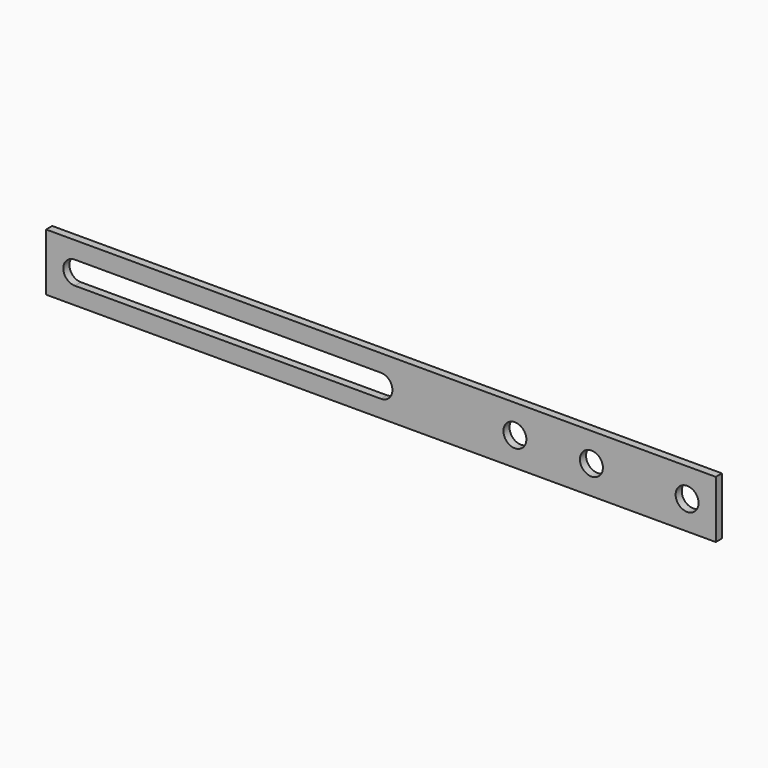
from build123d import *

# Parameters (mm, degrees)
F0_W     = 150
F0_H     = 15
F1_DEPTH = 1
F2_W     = 2
F2_H     = 15
F3_DEPTH = 25
F4_R     = 3
F5_DEPTH = 2.001
F6_R     = 3
F7_DEPTH = 2.001


with BuildPart() as f1:
    # F0 (on Front) → F1 (new body, symmetric)
    with BuildSketch(Plane.XZ):
        with Locations((67.5, 0)):
            Rectangle(F0_W, F0_H)
        with BuildLine():
            ThreePointArc((0, -3), (-3, 0), (0, 3))
            Line((0, 3), (80, 3))
            ThreePointArc((80, 3), (83, 0), (80, -3))
            Line((80, -3), (0, -3))
        make_face(mode=Mode.SUBTRACT)
        with BuildLine():
            ThreePointArc((135, 3), (138, 0), (135, -3))
            ThreePointArc((135, -3), (132, 0), (135, 3))
        make_face(mode=Mode.SUBTRACT)
    extrude(amount=F1_DEPTH, both=True)

    # F2 (on face) → F3 (join)
    with BuildSketch(Plane.YZ.offset(142.5)):
        Rectangle(F2_W, F2_H)
    extrude(amount=F3_DEPTH)

    # F4 (on face) → F5 (cut, through all)
    with BuildSketch(Plane.XZ.offset(1)):
        with Locations((160, 0)):
            Circle(F4_R)
    extrude(amount=-F5_DEPTH, mode=Mode.SUBTRACT)

    # F6 (on face) → F7 (cut, through all)
    with BuildSketch(Plane.XZ.offset(1)):
        with Locations((115, 0)):
            Circle(F6_R)
    extrude(amount=-F7_DEPTH, mode=Mode.SUBTRACT)


solid = f1.part
